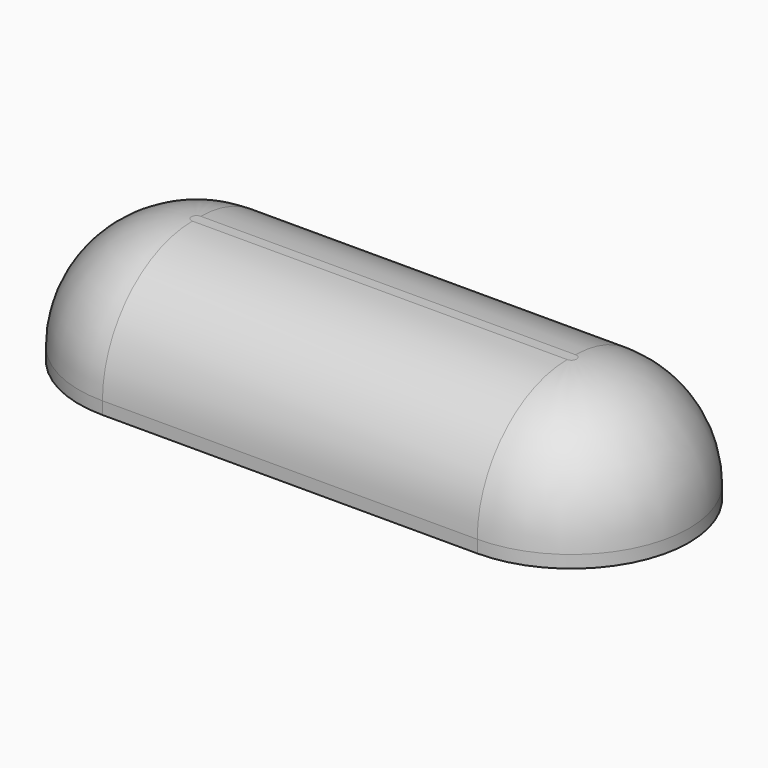
from build123d import *

# Parameters (mm, degrees)
F0_W     = 76.2
F0_H     = 47.8517871028
F1_DEPTH = 25.4
F2_R     = 22.86


with BuildPart() as f1:
    # F0 (on Top) → F1 (new body)
    with BuildSketch(Plane.XY):
        with Locations((6.1321528628, -4.2827744037)):
            Rectangle(F0_W, F0_H)
        with BuildLine():
            Line((-31.9678471372, -28.2086679551), (-31.9678471372, 19.6431191477))
            ThreePointArc((-31.9678471372, 19.6431191477), (-55.8937406885, -4.2827744037), (-31.9678471372, -28.2086679551))
        make_face()
        with BuildLine():
            ThreePointArc((44.2321528628, -28.2086679551), (68.1580464142, -4.2827744037), (44.2321528628, 19.6431191477))
            Line((44.2321528628, 19.6431191477), (44.2321528628, -28.2086679551))
        make_face()
    extrude(amount=F1_DEPTH)

    # F2
    f2_edges = [f1.edges().sort_by_distance(p)[0] for p in [
        (6.132153, 19.643119, 25.4),
        (-55.893741, -4.282774, 25.4),
        (6.132153, -28.208668, 25.4),
        (68.158046, -4.282774, 25.4),
    ]]
    fillet(f2_edges, radius=F2_R)


solid = f1.part
